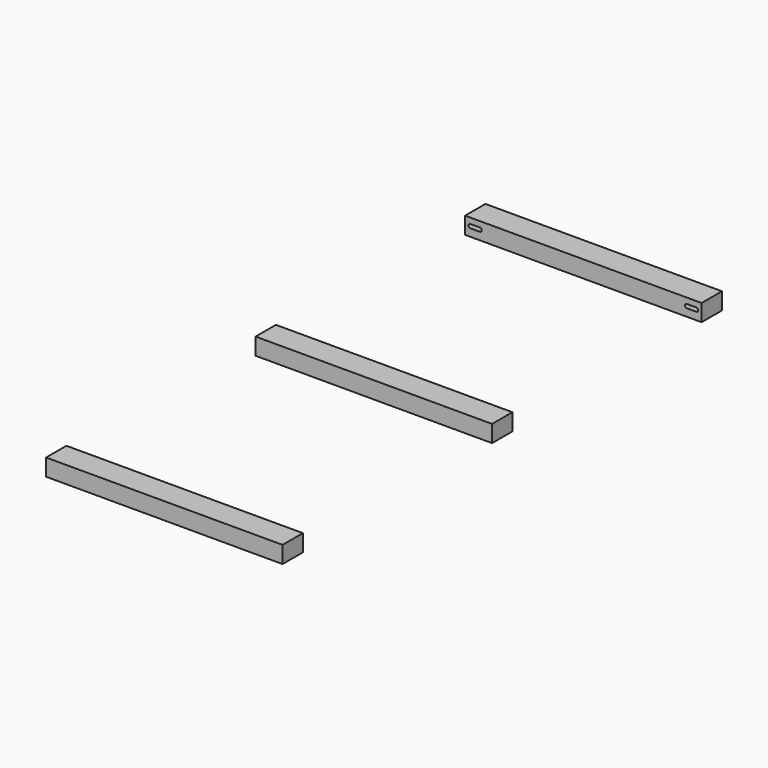
from build123d import *

# Parameters (mm, degrees)
SKETCH039_W            = 251.333334
SKETCH039_H            = 27
PAD025_DEPTH           = 18
POCKET019_DEPTH        = 27.001
POCKET019_DEPTH_BACK   = 0.001
LINEARPATTERN007_COUNT = 3
LINEARPATTERN007_PITCH = 278.333333


with BuildPart() as part:
    # Sketch039 → Pad025 (new body)
    with BuildSketch(Plane.XY):
        Rectangle(SKETCH039_W, SKETCH039_H)
    pad025 = extrude(amount=PAD025_DEPTH)

    # Sketch040 (on Face1 of Pad025) → Pocket019 (cut, two sides)
    with BuildSketch(Plane(origin=(0, 13.5, 0), x_dir=(-1, 0, 0), z_dir=(0, 1, 0))) as pocket019_sk:
        with BuildLine():
            ThreePointArc((-120, 12), (-122, 10), (-120, 8))
            Line((-120, 8), (-110, 8))
            ThreePointArc((-110, 8), (-108, 10), (-110, 12))
            Line((-110, 12), (-120, 12))
        make_face()
        with BuildLine():
            ThreePointArc((110, 12), (108, 10), (110, 8))
            Line((110, 8), (120, 8))
            ThreePointArc((120, 8), (122, 10), (120, 12))
            Line((120, 12), (110, 12))
        make_face()
    pocket019 = extrude(amount=-POCKET019_DEPTH, mode=Mode.SUBTRACT) + extrude(pocket019_sk.sketch, amount=POCKET019_DEPTH_BACK, mode=Mode.SUBTRACT)

    # LinearPattern007: Pocket019, Pad025 ×3
    with Locations(*[(0, -i * LINEARPATTERN007_PITCH, 0) for i in range(1, LINEARPATTERN007_COUNT)]):
        add(pocket019, mode=Mode.SUBTRACT)
        add(pad025)


with BuildPart() as part_1:
    # Body025 placement: moved
    add(part.part.moved(Location((-139.333333, 278.333333, 0))))


solid = part_1.part
